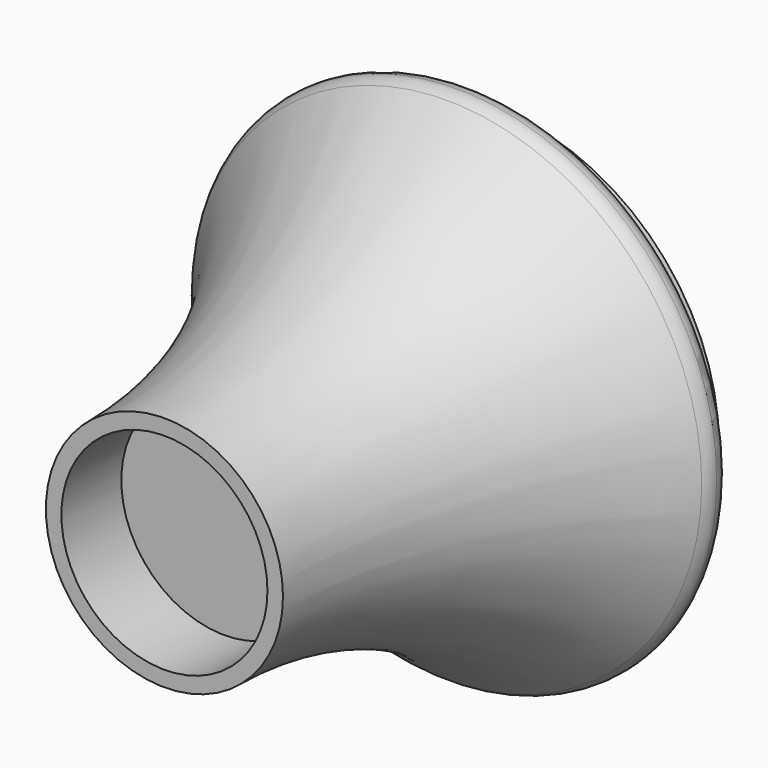
from build123d import *


with BuildPart() as f1:
    # F0 (on Top) → F1 (revolve)
    with BuildSketch(Plane.XY):
        with BuildLine():
            Line((220, 2.063973), (220, -157.936027))
            Line((220, -157.936027), (253.133041, -157.936027))
            ThreePointArc((253.133041, -157.936027), (328.491551, 245.950291), (544.426179, 595.486124))
            ThreePointArc((544.426179, 595.486124), (491.39407, 589.978316), (480, 642.063973))
            Line((480, 642.063973), (480, 722.063973))
            Line((480, 722.063973), (400, 722.063973))
            Line((400, 722.063973), (400, 502.063973))
            Line((400, 502.063973), (220, 62.063973))
            Line((220, 62.063973), (0, 62.063973))
            Line((0, 62.063973), (0, 40.820677))
            Line((0, 40.820677), (0, 2.063973))
            Line((0, 2.063973), (220, 2.063973))
        make_face()
        with BuildLine():
            ThreePointArc((480, 642.063973), (491.39407, 589.978316), (544.426179, 595.486124))
            ThreePointArc((544.426179, 595.486124), (552.13813, 607.969547), (554.829505, 622.394058))
            ThreePointArc((554.829505, 622.394058), (524.998571, 661.079845), (480, 642.063973))
        make_face()
    revolve(axis=Axis((0, 32.063973, 0), (0, 1, 0)))


solid = f1.part
